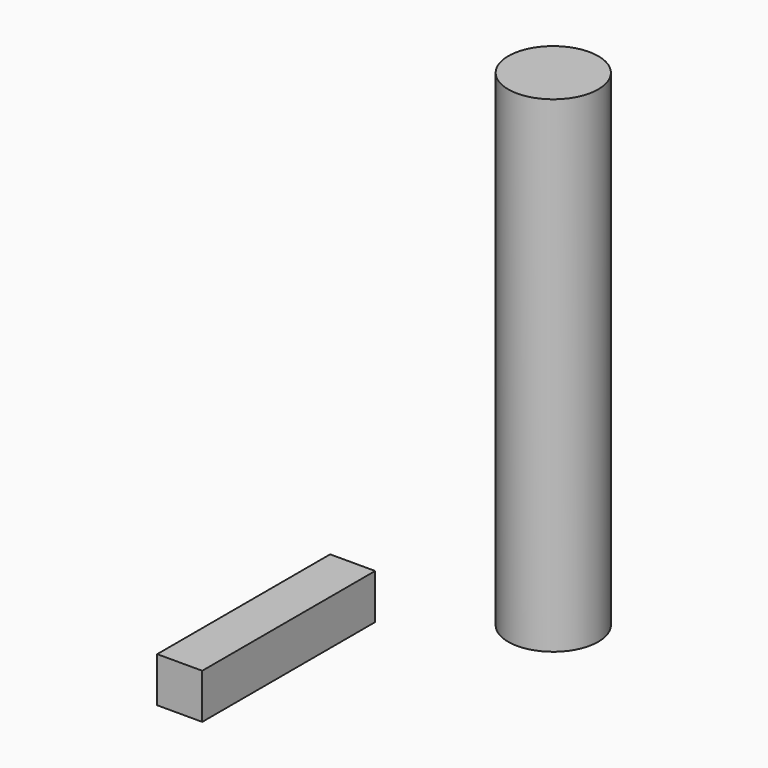
from build123d import *

# Parameters (mm, degrees)
F0_R     = 2.5
F1_DEPTH = 27
F2_W     = 2.5
F2_H     = 12
F3_DEPTH = 2.5


with BuildPart() as f1:
    # F0 (on Top) → F1 (new body)
    with BuildSketch(Plane.XY):
        with Locations((22.245873, -45.197681)):
            Circle(F0_R)
    extrude(amount=F1_DEPTH)


with BuildPart() as f3:
    # F2 (on Top) → F3 (new body)
    with BuildSketch(Plane.XY):
        with Locations((14.787501, -55.793846)):
            Rectangle(F2_W, F2_H)
    extrude(amount=F3_DEPTH)


solid = Compound([f1.part, f3.part])
